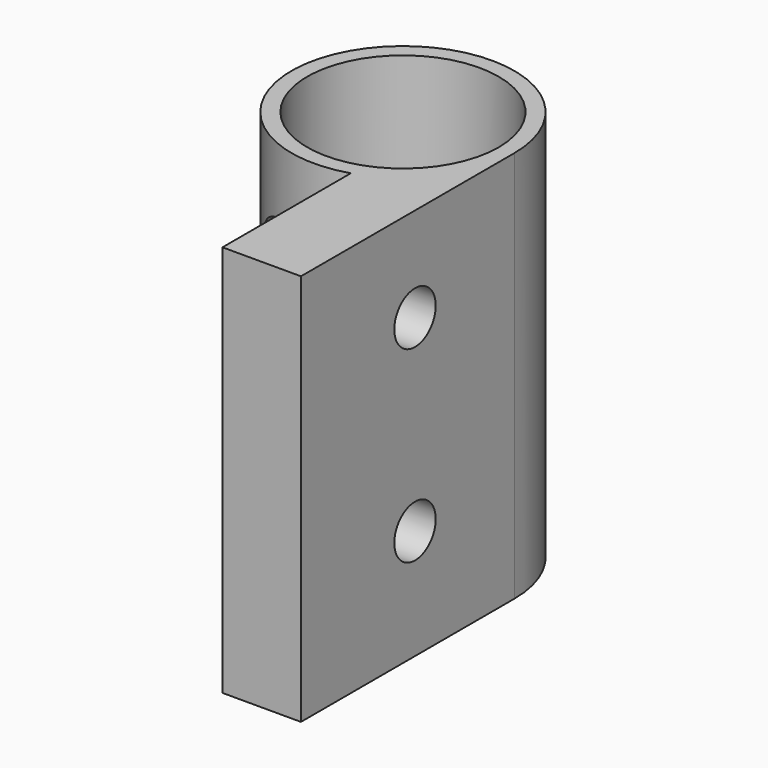
from build123d import *

# Parameters (mm, degrees)
F0_R     = 6.1
F1_DEPTH = 25
F2_R     = 2.3
F3_DEPTH = 25
F4_DEPTH = 2
F5_D     = 3.3


with BuildPart() as f1:
    # F0 (on Top) → F1 (new body)
    with BuildSketch(Plane.XY):
        with BuildLine():
            ThreePointArc((2.1, -6.7823299831), (5.7148928249, -4.2130748866), (7.1, 0))
            ThreePointArc((7.1, 0), (-5.7148928249, 4.2130748866), (2.1, -6.7823299831))
        make_face()
        Circle(F0_R, mode=Mode.SUBTRACT)
        with BuildLine():
            Line((7.1, -17), (7.1, 0))
            ThreePointArc((7.1, 0), (5.7148928249, -4.2130748866), (2.1, -6.7823299831))
            Line((2.1, -6.7823299831), (2.1, -17))
            Line((2.1, -17), (7.1, -17))
        make_face()
    extrude(amount=F1_DEPTH)

    # F2 (on face) → F3 (cut)
    with BuildSketch(Plane(origin=(2.1, 0, 0), x_dir=(0, -1, 0), z_dir=(-1, 0, 0))):
        with BuildLine():
            ThreePointArc((6.7823299831, 16.9879498806), (9.0729868094, 17.0039599884), (10.2137183353, 18.9904384315))
            ThreePointArc((10.2137183353, 18.9904384315), (9.0729868094, 20.9769168746), (6.7823299831, 20.9929269824))
            Line((6.7823299831, 20.9929269824), (6.7823299831, 16.9879498806))
        make_face()
        with Locations((7.9137183353, 18.9904384315)):
            Circle(F2_R)
        with Locations((7.9137183353, 7.0155123249)):
            Circle(F2_R)
    extrude(amount=F3_DEPTH, mode=Mode.SUBTRACT)

    # F2 (on face) → F4 (cut)
    with BuildSketch(Plane(origin=(2.1, 0, 0), x_dir=(0, -1, 0), z_dir=(-1, 0, 0))):
        with Locations((7.9137183353, 18.9904384315)):
            Circle(F2_R)
        with Locations((7.9137183353, 7.0155123249)):
            Circle(F2_R)
    extrude(amount=-F4_DEPTH, mode=Mode.SUBTRACT)

    # F5 (through all)
    with Locations(Plane(origin=(2.1, 0, 0), x_dir=(0, -1, 0), z_dir=(-1, 0, 0))):
        with Locations((7.9137183353, 7.0155123249), (7.9137183353, 18.9904384315)):
            Hole(F5_D / 2)


solid = f1.part
